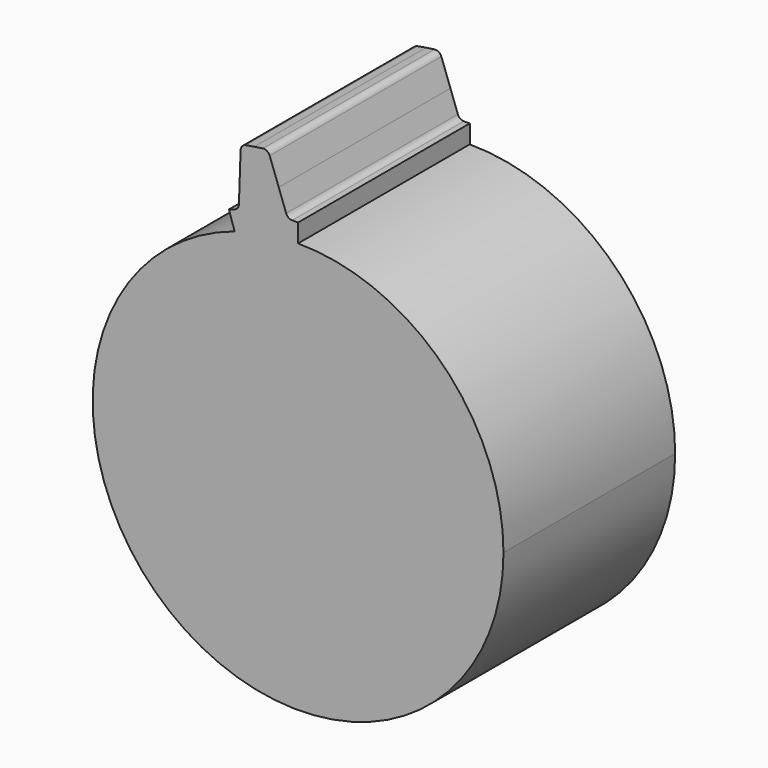
from build123d import *

# Parameters (mm, degrees)
F1_DEPTH = 20


with BuildPart() as f1:
    # F0 (on Front) → F1 (new body)
    with BuildSketch(Plane.XZ):
        with BuildLine():
            ThreePointArc((-2.99453, 18.906719), (-4.468703, 18.613488), (-5.915325, 18.205498))
            ThreePointArc((-5.915325, 18.205498), (-11.251617, -15.486522), (19.142393, 0))
            ThreePointArc((19.142393, 0), (13.535716, 13.535716), (0, 19.142393))
            ThreePointArc((0, 19.142393), (-1.501895, 19.083384), (-2.99453, 18.906719))
        make_face()
        with BuildLine():
            Line((-6.445802, 19.838138), (-5.915325, 18.205498))
            ThreePointArc((-5.915325, 18.205498), (-4.468703, 18.613488), (-2.99453, 18.906719))
            Line((-2.99453, 18.906719), (-4.078854, 25.752868))
            Line((-4.078854, 25.752868), (-4.875689, 25.613901))
            ThreePointArc((-4.875689, 25.613901), (-5.214191, 25.41757), (-5.356509, 25.053049))
            Line((-5.356509, 25.053049), (-5.443327, 22.582582))
            Line((-5.443327, 22.582582), (-5.5143, 20.551845))
            ThreePointArc((-5.5143, 20.551845), (-5.633033, 20.215337), (-5.923472, 20.00802))
            Line((-5.923472, 20.00802), (-6.445802, 19.838138))
        make_face()
        with BuildLine():
            Line((-4.078854, 25.752868), (-2.99453, 18.906719))
            ThreePointArc((-2.99453, 18.906719), (-1.501895, 19.083384), (0, 19.142393))
            Line((0, 19.142393), (0, 20.859053))
            Line((0, 20.859053), (-0.549261, 20.859211))
            ThreePointArc((-0.549261, 20.859211), (-0.88955, 20.966631), (-1.106458, 21.249979))
            Line((-1.106458, 21.249979), (-1.80149, 23.159393))
            Line((-1.80149, 23.159393), (-2.647475, 25.482118))
            ThreePointArc((-2.647475, 25.482118), (-2.895471, 25.784819), (-3.278075, 25.866939))
            Line((-3.278075, 25.866939), (-4.078854, 25.752868))
        make_face()
    extrude(amount=F1_DEPTH)


solid = f1.part
